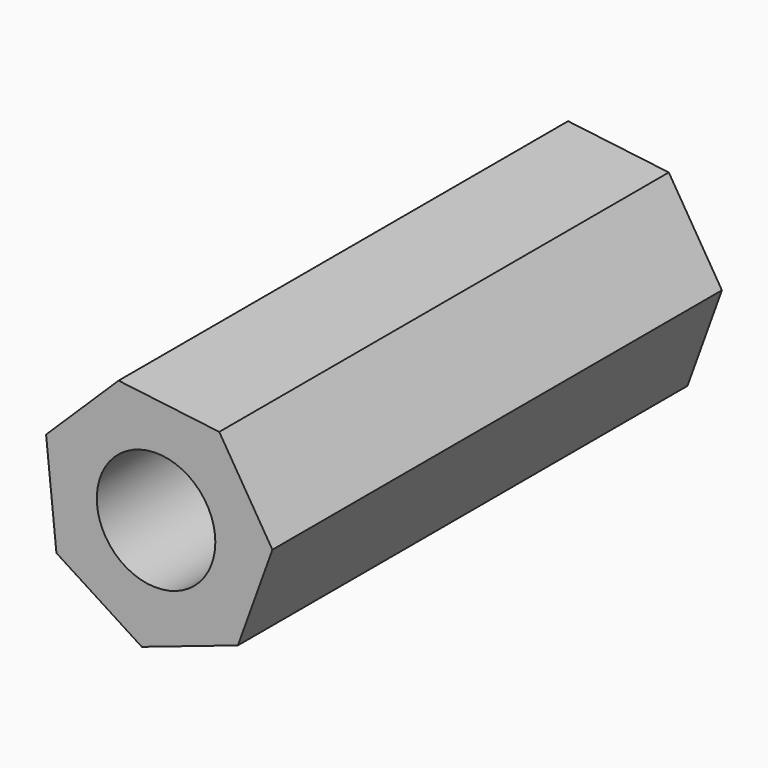
from build123d import *

# Parameters (mm, degrees)
F1_DEPTH = 50.8
F3_D     = 10.71626


with BuildPart() as f1:
    # F0 (on Front) → F1 (new body)
    with BuildSketch(Plane.XZ):
        Polygon((5.7143960067, 8.8944845927), (-3.391120441, 10.0133151377), (-9.9430540303, 3.5919151496), (-9.0076651335, -5.5342702079), (-1.2893206683, -10.4930372203), (7.3999085575, -7.5503331868), (10.5168557089, 1.077925735), align=None)
    extrude(amount=F1_DEPTH)

    # F3 (through all)
    with Locations(Plane(origin=(0, 0, 0), x_dir=(-1, 0, 0), z_dir=(0, 1, 0))):
        with Locations((0, 0)):
            Hole(F3_D / 2)


solid = f1.part
